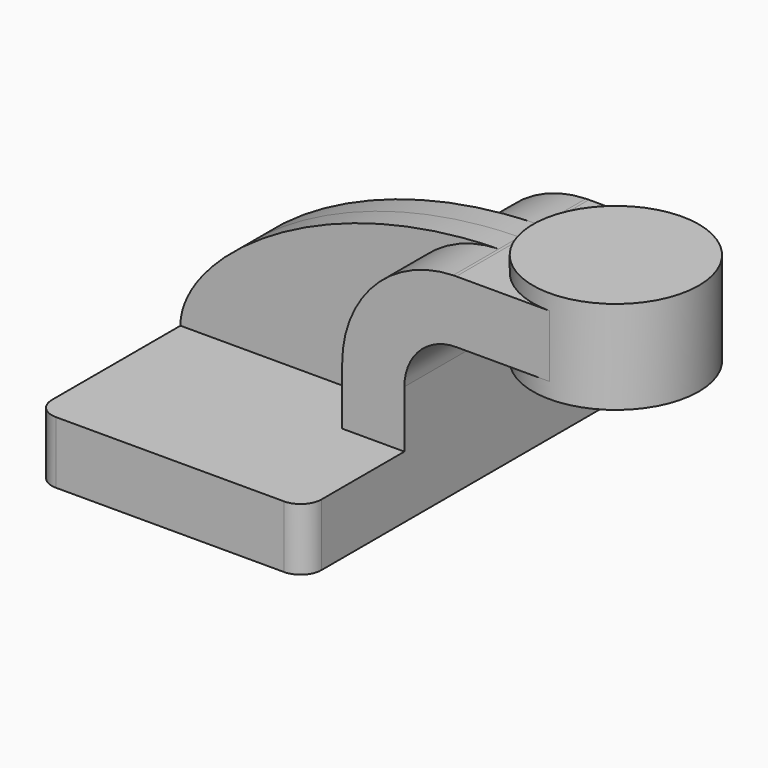
from build123d import *

# Parameters (mm, degrees)
F1_DEPTH = 63.5
F0_W     = 25.4
F0_H     = 19.05
F2_DEPTH = 25.4
F3_DEPTH = 7.9375
F5_R     = 6.35


with BuildPart() as f1:
    # F0 (on Front) → F1 (new body, symmetric)
    with BuildSketch(Plane.XZ):
        Polygon((-41.275, 9.525), (-41.275, -9.525), (41.275, -9.525), (41.275, 9.525), (22.225, 9.525), align=None)
    extrude(amount=F1_DEPTH, both=True)

    # F0 (on Front) → F2 (join, symmetric)
    with BuildSketch(Plane.XZ):
        with BuildLine():
            Line((22.225, 9.525), (41.275, 9.525))
            Line((41.275, 9.525), (41.275, 27.0002))
            ThreePointArc((41.275, 27.0002), (45.9246798487, 38.2255201513), (57.15, 42.8752))
            Line((57.15, 42.8752), (60.325, 42.8752))
            Line((60.325, 42.8752), (60.325, 61.9252))
            Line((60.325, 61.9252), (57.15, 61.9252))
            add(Edge.make_bspline(
                [(56.2167130803, 61.912727845), (56.5273358461, 61.9178208633), (56.8384328672, 61.9219806407), (57.15, 61.9252)],
                knots=[110.8966420493, 110.8966420493, 110.8966420493, 110.8966420493, 111.5045361635, 111.5045361635, 111.5045361635, 111.5045361635], degree=3))
            ThreePointArc((56.2167130803, 61.912727845), (32.1265043342, 51.3637032306), (22.225, 27.0002))
            Line((22.225, 27.0002), (22.225, 9.525))
        make_face()
        with Locations((73.025, 52.4002)):
            Rectangle(F0_W, F0_H)
    extrude(amount=F2_DEPTH, both=True)

    # F0 (on Front) → F3 (join, symmetric)
    with BuildSketch(Plane.XZ):
        with BuildLine():
            add(Edge.make_bspline(
                [(-41.275, 9.525), (-41.332462601, 28.9964285063), (-0.4494412016, 60.9836209238), (56.2167130803, 61.912727845)],
                knots=[0, 0, 0, 0, 110.8966420493, 110.8966420493, 110.8966420493, 110.8966420493], degree=3))
            Line((-41.275, 9.525), (22.225, 9.525))
            Line((22.225, 9.525), (22.225, 27.0002))
            ThreePointArc((22.225, 27.0002), (32.1265043342, 51.3637032306), (56.2167130803, 61.912727845))
        make_face()
    extrude(amount=F3_DEPTH, both=True)

    # F0 (on Front) → F4 (revolve)
    with BuildSketch(Plane.XZ):
        Polygon((85.725, 66.675), (85.725, 61.9252), (85.725, 42.8752), (85.725, 38.1), (111.125, 38.1), (111.125, 66.675), align=None)
    revolve(axis=Axis((85.725, 0, 52.3875), (0, 0, 1)))

    # F5
    f5_edges = [f1.edges().sort_by_distance(p)[0] for p in [
        (41.275, -63.5, 0),
        (-41.275, -63.5, 0),
        (-41.275, 63.5, 0),
    ]]
    fillet(f5_edges, radius=F5_R)


solid = f1.part
